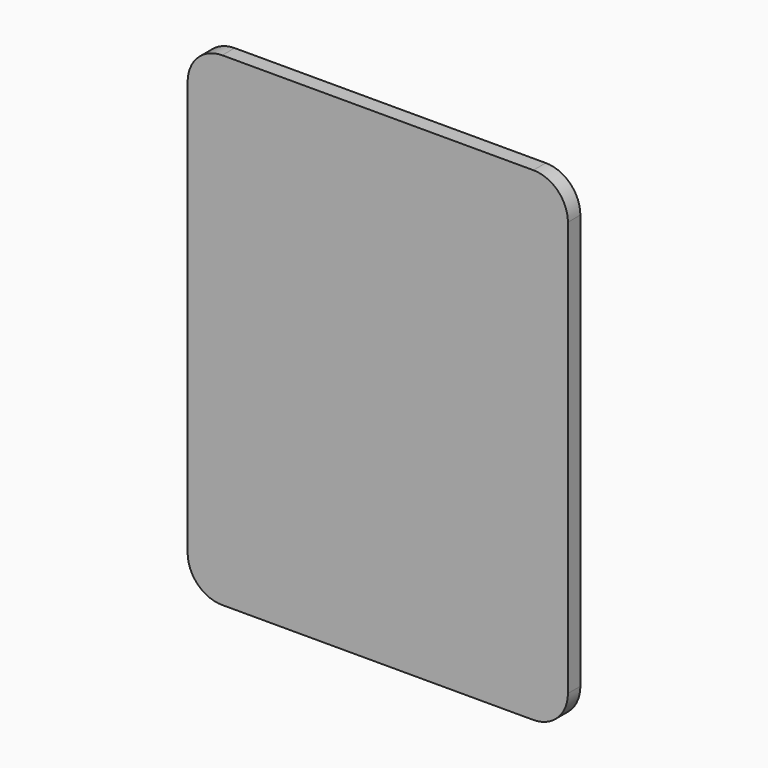
from build123d import *

# Parameters (mm, degrees)
F1_DEPTH = 9


with BuildPart() as f1:
    # F0 (on Front) → F1 (new body)
    with BuildSketch(Plane.XZ):
        with BuildLine():
            ThreePointArc((122.222222, 133.330846), (116.364358, 147.472981), (102.222222, 153.330846))
            Line((102.222222, 153.330846), (-77.777778, 153.330846))
            ThreePointArc((-77.777778, 153.330846), (-91.919913, 147.472981), (-97.777778, 133.330846))
            Line((-97.777778, 133.330846), (-97.777778, -106.646764))
            Line((-97.777778, -106.646764), (-97.777778, -106.669154))
            ThreePointArc((-97.777778, -106.669154), (-91.919913, -120.81129), (-77.777778, -126.669154))
            Line((-77.777778, -126.669154), (102.222222, -126.669154))
            ThreePointArc((102.222222, -126.669154), (116.364358, -120.81129), (122.222222, -106.669154))
            Line((122.222222, -106.669154), (122.222222, 133.330846))
        make_face()
    extrude(amount=-F1_DEPTH)


solid = f1.part
